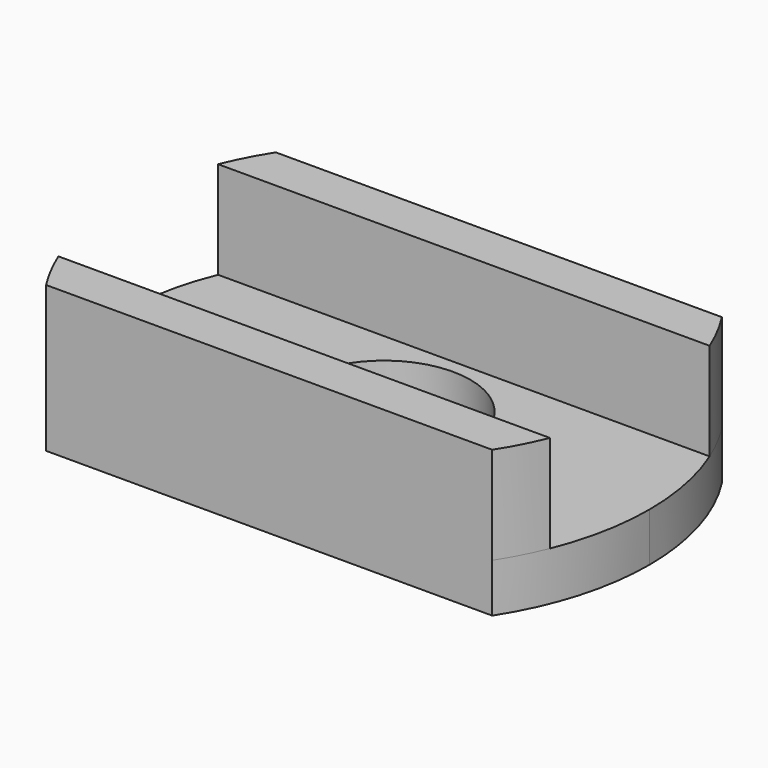
from build123d import *

# Parameters (mm, degrees)
F1_DEPTH = 2
F2_R     = 3.55
F3_DEPTH = 25
F5_DEPTH = 4


with BuildPart() as f1:
    # F0 (on Top) → F1 (new body)
    with BuildSketch(Plane.XY):
        with BuildLine():
            ThreePointArc((9.165151, -5.9), (10.457298, -3.074886), (10.9, 0))
            ThreePointArc((10.9, 0), (10.457298, 3.074886), (9.165151, 5.9))
            Line((9.165151, 5.9), (-9.165151, 5.9))
            ThreePointArc((-9.165151, 5.9), (-10.9, 0), (-9.165151, -5.9))
            Line((-9.165151, -5.9), (9.165151, -5.9))
        make_face()
    extrude(amount=F1_DEPTH)

    # F2 (on face) → F3 (cut)
    with BuildSketch(Plane.XY.offset(2)):
        Circle(F2_R)
    extrude(amount=-F3_DEPTH, mode=Mode.SUBTRACT)

    # F4 (on face) → F5 (join)
    with BuildSketch(Plane.XY.offset(2)):
        with BuildLine():
            Line((-10.099505, 4.1), (10.099505, 4.1))
            ThreePointArc((10.099505, 4.1), (9.674283, 5.021778), (9.165151, 5.9))
            Line((9.165151, 5.9), (-9.165151, 5.9))
            ThreePointArc((-9.165151, 5.9), (-9.674283, 5.021778), (-10.099505, 4.1))
        make_face()
        with BuildLine():
            ThreePointArc((9.165151, -5.9), (9.674283, -5.021778), (10.099505, -4.1))
            Line((10.099505, -4.1), (-10.099505, -4.1))
            ThreePointArc((-10.099505, -4.1), (-9.674283, -5.021778), (-9.165151, -5.9))
            Line((-9.165151, -5.9), (9.165151, -5.9))
        make_face()
    extrude(amount=F5_DEPTH)


solid = f1.part
